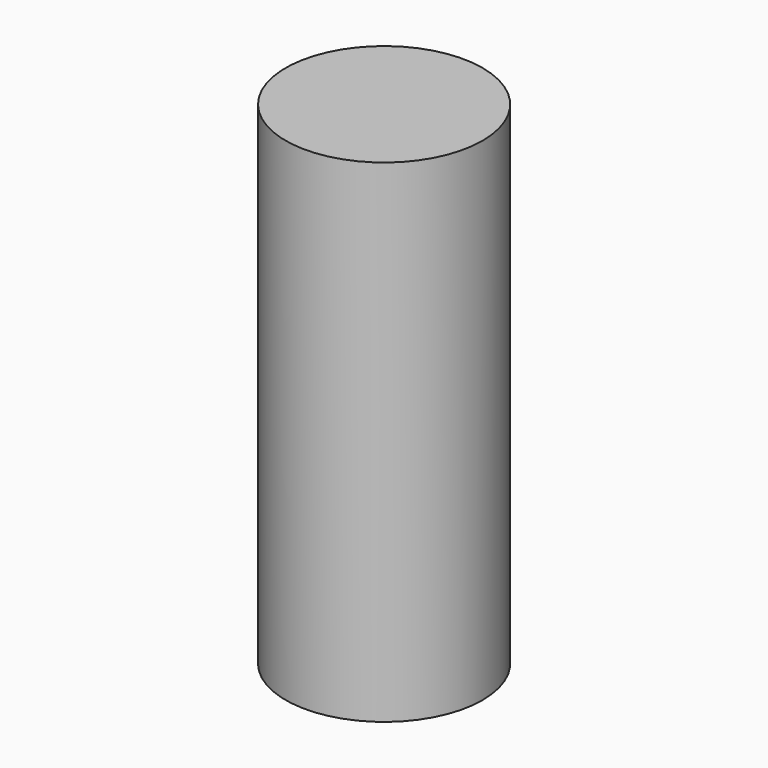
from build123d import *

# Parameters (mm, degrees)
SKETCH_R     = 9
PAD_DEPTH    = 65
SKETCH001_R  = 13
PAD001_DEPTH = 65


with BuildPart() as battery_18650_body:
    # Sketch → Pad (new body)
    with BuildSketch(Plane.XY):
        Circle(SKETCH_R)
    extrude(amount=PAD_DEPTH)


with BuildPart() as battery_26650_body001:
    # Sketch001 → Pad001 (new body)
    with BuildSketch(Plane.XY):
        Circle(SKETCH001_R)
    extrude(amount=PAD001_DEPTH)


solid = Compound([battery_18650_body.part, battery_26650_body001.part])
